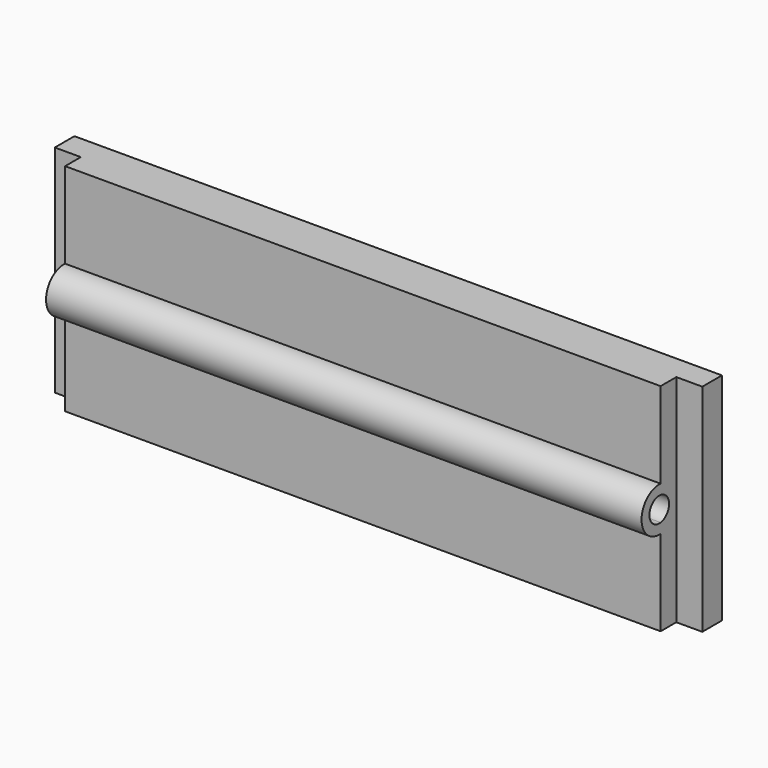
from build123d import *

# Parameters (mm, degrees)
F0_W      = 60.7
F0_H      = 22
F1_DEPTH  = 2
F0_W_2    = 2.65
F2_DEPTH  = 2.5
F1_FACE_W = 2
F1_FACE_H = 22
F4_DEPTH  = 30.35
F5_DEPTH  = 30.35
F6_D      = 2.5
F6_DEPTH  = 33.001
F7_D      = 2.5


with BuildPart() as f1:
    # F0 (on Front) → F1 (new body)
    with BuildSketch(Plane.XZ):
        Rectangle(F0_W, F0_H)
    extrude(amount=F1_DEPTH)

    # F0 (on Front) → F2 (join)
    with BuildSketch(Plane.XZ):
        with Locations((31.675, 0)):
            Rectangle(F0_W_2, F0_H)
        Rectangle(F0_W, F0_H)
        with Locations((-31.675, 0)):
            Rectangle(F0_W_2, F0_H)
    extrude(amount=-F2_DEPTH)

    # F3 (on Right) + F1_face (on face) → F4 (join)
    with BuildSketch(Plane.YZ):
        with BuildLine():
            ThreePointArc((0.0834241115, 0), (-2.1721045963, 2.2555287078), (-4.4276333041, 0))
            ThreePointArc((-4.4276333041, 0), (-2.1721045963, -2.2555287078), (0.0834241115, 0))
        make_face()
        with BuildLine():
            ThreePointArc((-3.4221045963, 0), (-2.1721045963, 1.25), (-0.9221045963, 0))
            ThreePointArc((-0.9221045963, 0), (-2.1721045963, -1.25), (-3.4221045963, 0))
        make_face(mode=Mode.SUBTRACT)
        with BuildLine():
            ThreePointArc((0.0834241115, 0), (-2.1721045963, 2.2555287078), (-4.4276333041, 0))
            ThreePointArc((-4.4276333041, 0), (-2.1721045963, -2.2555287078), (0.0834241115, 0))
        make_face()
        with BuildLine():
            ThreePointArc((-3.4221045963, 0), (-2.1721045963, 1.25), (-0.9221045963, 0))
            ThreePointArc((-0.9221045963, 0), (-2.1721045963, -1.25), (-3.4221045963, 0))
        make_face(mode=Mode.SUBTRACT)
        with BuildLine():
            ThreePointArc((0.0834241115, 0), (-2.1721045963, 2.2555287078), (-4.4276333041, 0))
            ThreePointArc((-4.4276333041, 0), (-2.1721045963, -2.2555287078), (0.0834241115, 0))
        make_face()
        with BuildLine():
            ThreePointArc((-3.4221045963, 0), (-2.1721045963, 1.25), (-0.9221045963, 0))
            ThreePointArc((-0.9221045963, 0), (-2.1721045963, -1.25), (-3.4221045963, 0))
        make_face(mode=Mode.SUBTRACT)
    with BuildSketch(Plane(origin=(-30.35, -1, 0), x_dir=(0, -1, 0), z_dir=(-1, 0, 0))):
        Rectangle(F1_FACE_W, F1_FACE_H)
    extrude(amount=F4_DEPTH, dir=(1, 0, 0))

    # F3 (on Right) → F5 (join)
    with BuildSketch(Plane.YZ):
        with BuildLine():
            ThreePointArc((0.0834241115, 0), (-2.1721045963, 2.2555287078), (-4.4276333041, 0))
            ThreePointArc((-4.4276333041, 0), (-2.1721045963, -2.2555287078), (0.0834241115, 0))
        make_face()
        with BuildLine():
            ThreePointArc((-3.4221045963, 0), (-2.1721045963, 1.25), (-0.9221045963, 0))
            ThreePointArc((-0.9221045963, 0), (-2.1721045963, -1.25), (-3.4221045963, 0))
        make_face(mode=Mode.SUBTRACT)
    extrude(amount=-F5_DEPTH)

    # F6 (through all, one way)
    with BuildSketch(Plane.YZ):
        with Locations((-2.1721045963, 0)):
            Circle(F6_D / 2)
    extrude(amount=-F6_DEPTH, mode=Mode.SUBTRACT)

    # F7 (through all)
    with Locations(Plane(origin=(0, 0, 0), x_dir=(0, 1, 0), z_dir=(-1, 0, 0))):
        with Locations((-2.1721045963, 0)):
            Hole(F7_D / 2)


solid = f1.part
